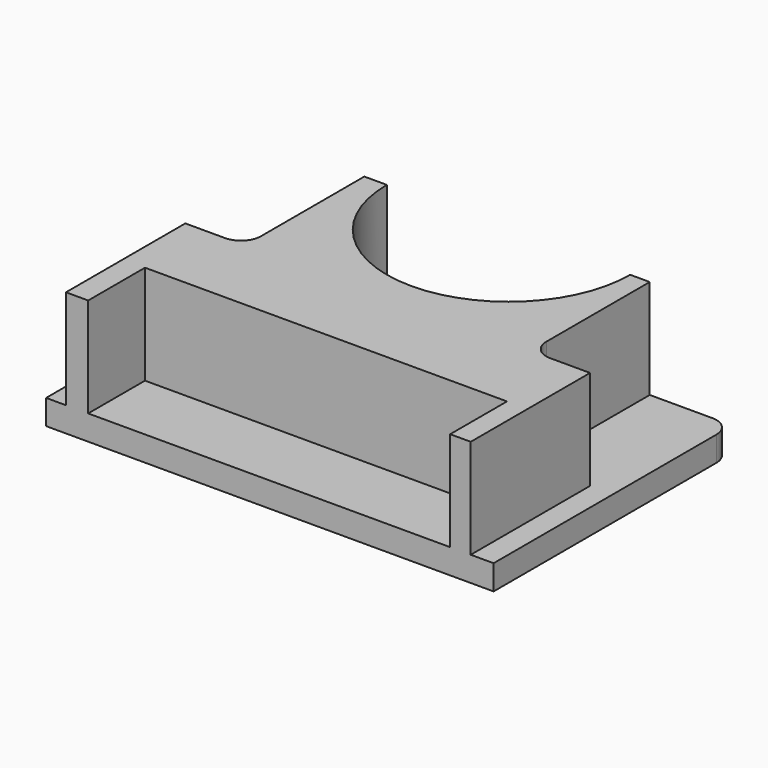
from build123d import *

# Parameters (mm, degrees)
F1_DEPTH = 6.35
F2_R     = 5.08
F4_DEPTH = 25.4
F5_R     = 5.08


with BuildPart() as f1:
    # F0 (on Top) → F1 (new body)
    with BuildSketch(Plane.XY):
        with BuildLine():
            Line((-31.073933, 38.1), (-57.15, 38.1))
            Line((-57.15, 38.1), (-57.15, -38.1))
            Line((-57.15, -38.1), (57.15, -38.1))
            Line((57.15, -38.1), (57.15, 38.1))
            Line((57.15, 38.1), (31.073933, 38.1))
            ThreePointArc((31.073933, 38.1), (0, 7.026067), (-31.073933, 38.1))
        make_face()
    extrude(amount=F1_DEPTH)

    # F2
    f2_edges = [f1.edges().sort_by_distance(p)[0] for p in [
        (-57.15, 38.1, 3.175),
        (57.15, 38.1, 3.175),
    ]]
    fillet(f2_edges, radius=F2_R)

    # F3 (on face) → F4 (join)
    with BuildSketch(Plane.XY.offset(6.35)):
        with BuildLine():
            Line((-31.073933, 38.1), (-36.83, 38.1))
            Line((-36.83, 38.1), (-36.83, 0))
            Line((-36.83, 0), (-52.07, 0))
            Line((-52.07, 0), (-52.07, -38.1))
            Line((-52.07, -38.1), (-46.398055, -38.1))
            Line((-46.398055, -38.1), (-46.398055, -19.961452))
            Line((-46.398055, -19.961452), (46.057381, -19.961452))
            Line((46.057381, -19.961452), (46.057381, -38.1))
            Line((46.057381, -38.1), (51.308, -38.1))
            Line((51.308, -38.1), (51.308, 0))
            Line((51.308, 0), (36.068, 0))
            Line((36.068, 0), (36.068, 38.1))
            Line((36.068, 38.1), (31.073933, 38.1))
            ThreePointArc((31.073933, 38.1), (0, 7.026067), (-31.073933, 38.1))
        make_face()
    extrude(amount=F4_DEPTH)

    # F5
    f5_edges = [f1.edges().sort_by_distance(p)[0] for p in [
        (36.068, 0, 19.05),
        (-36.83, 0, 19.05),
    ]]
    fillet(f5_edges, radius=F5_R)


solid = f1.part
